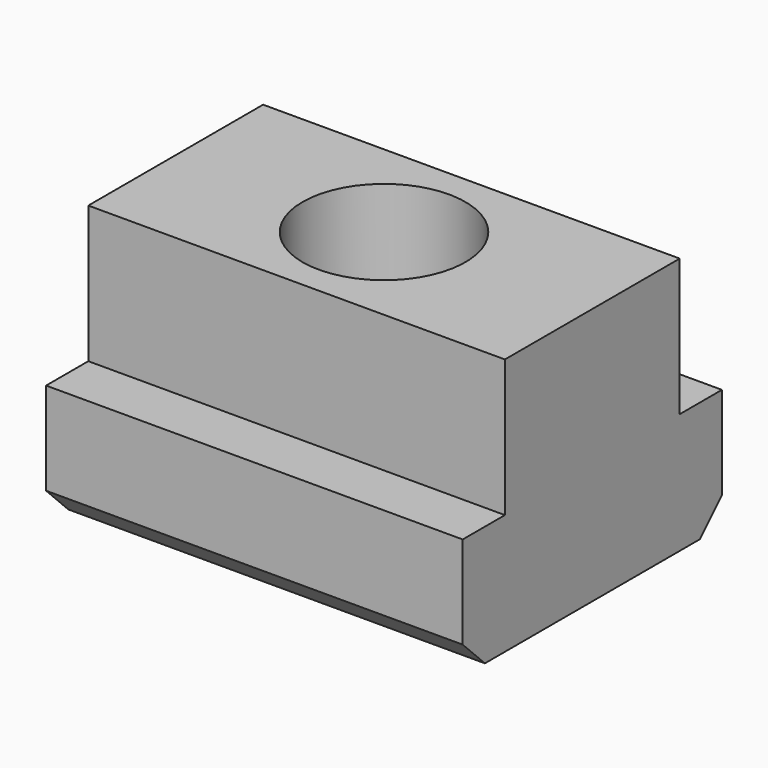
from build123d import *

# Parameters (mm, degrees)
F1_DEPTH = 22.5
F3_D     = 8.8
F4_SIZE  = 1.5


with BuildPart() as f1:
    # F0 (on Right) → F1 (new body)
    with BuildSketch(Plane.YZ):
        Polygon((5.9, 7.4), (-5.9, 7.4), (-5.9, 0), (-8.75, 0), (-8.75, -6.5), (8.75, -6.5), (8.75, 0), (5.9, 0), align=None)
    extrude(amount=-F1_DEPTH)

    # F3 (through all)
    with Locations(Plane.XY.offset(7.4)):
        with Locations((-11.25, 0)):
            Hole(F3_D / 2)

    # F4
    f4_edges = [f1.edges().sort_by_distance(p)[0] for p in [
        (-11.25, -8.75, -6.5),
        (-11.25, 8.75, -6.5),
    ]]
    chamfer(f4_edges, length=F4_SIZE)


solid = f1.part
